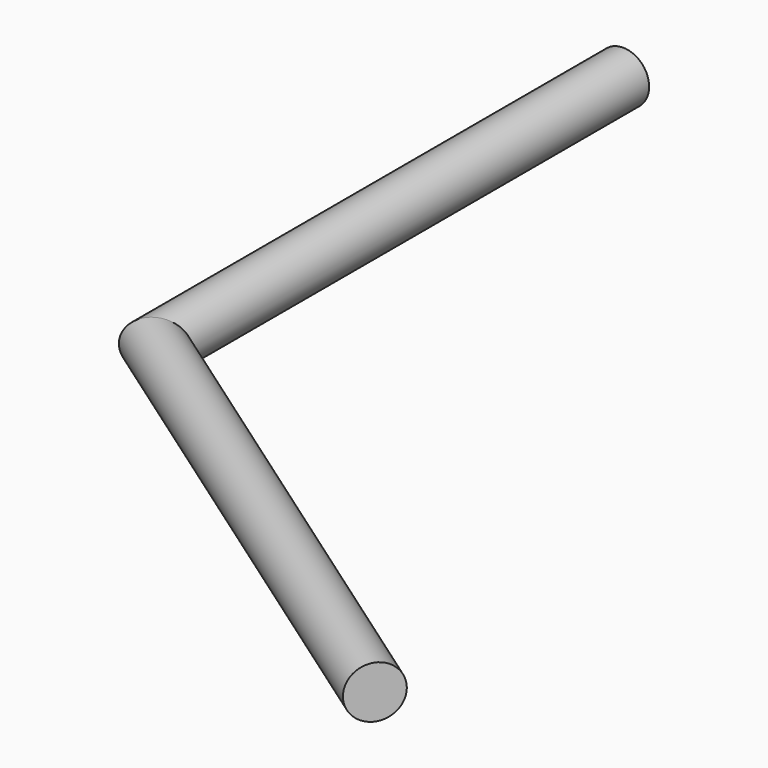
from build123d import *

# Parameters (mm, degrees)
F1_R = 20.6375


with BuildPart() as f2:
    # F2: sweep along a path in F0
    with BuildLine(Plane.XY) as f2_path:
        Line((0, 0), (0, -463.55))
        Line((0, -463.55), (395.3227765739, -740.357988183))
    # F1 (on Front) → F2 (sweep)
    with BuildSketch(Plane.XZ):
        Circle(F1_R)
    sweep(path=f2_path.line, transition=Transition.RIGHT)


solid = f2.part
